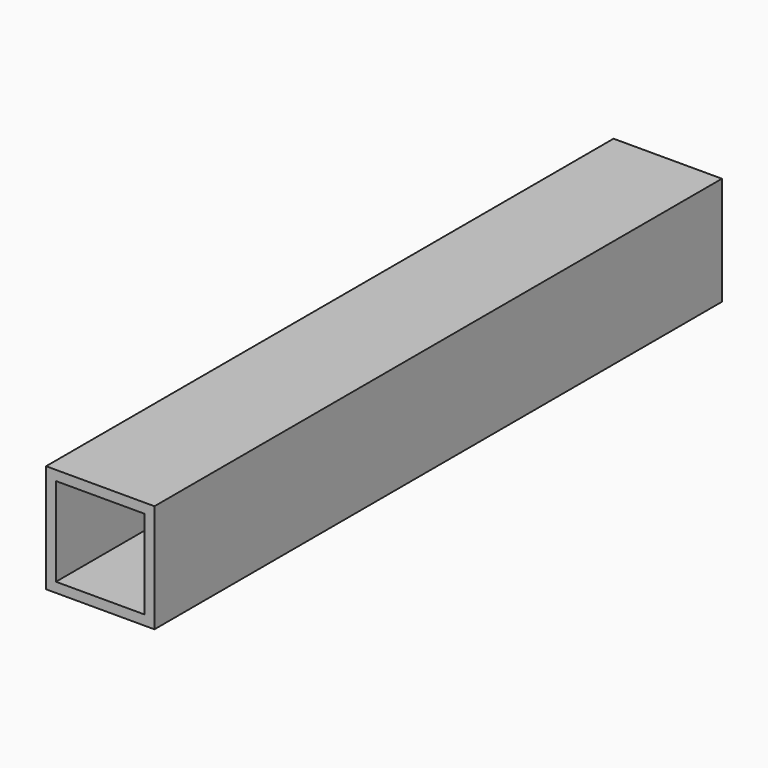
from build123d import *

# Parameters (mm, degrees)
BOX001_W     = 9
BOX001_H     = 74
BOX001_DEPTH = 9
BOX_W        = 11
BOX_H        = 72
BOX_DEPTH    = 11


with BuildPart() as obj1:
    # Box001 → Box001 (new body)
    with BuildSketch(Plane(origin=(53, -21.5, -8), x_dir=(1, 0, 0), z_dir=(0, 0, 1))):
        with Locations((4.5, 37)):
            Rectangle(BOX001_W, BOX001_H)
    extrude(amount=BOX001_DEPTH)


with BuildPart() as obj2:
    # Box → Box (new body)
    with BuildSketch(Plane(origin=(52, -20.5, -9), x_dir=(1, 0, 0), z_dir=(0, 0, 1))):
        with Locations((5.5, 36)):
            Rectangle(BOX_W, BOX_H)
    extrude(amount=BOX_DEPTH)

    # Cut001008: cut obj1
    add(obj1.part, mode=Mode.SUBTRACT)


solid = obj2.part
